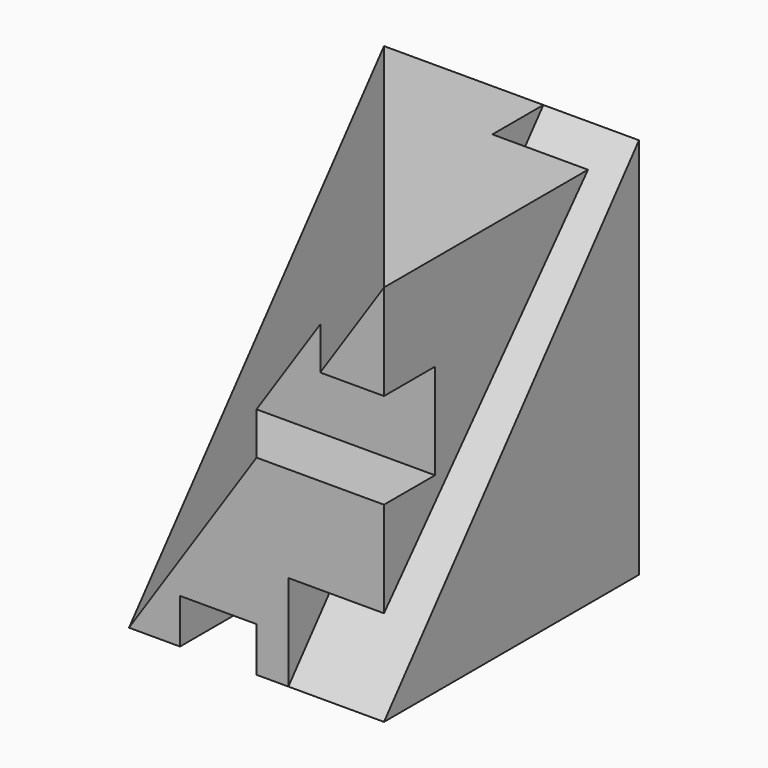
from build123d import *

# Parameters (mm, degrees)
F0_W     = 40
F0_H     = 60
F1_DEPTH = 50
F4_W     = 12
F4_H     = 7
F5_DEPTH = 50.0010001
F6_W     = 40
F6_H     = 15
F7_DEPTH = 10
F9_DEPTH = 15


with BuildPart() as f1:
    # F0 (on Front) → F1 (new body)
    with BuildSketch(Plane.XZ):
        with Locations((20, 30)):
            Rectangle(F0_W, F0_H)
    extrude(amount=F1_DEPTH)

    # F2 (on face) → F3 section 0
    with BuildSketch(Plane.XY.offset(60), mode=Mode.PRIVATE) as f3_s0:
        Polygon((40, -50), (0, 0), (0, -50), align=None)
    loft([f3_s0.sketch, Vertex(0, -50, 0)], mode=Mode.SUBTRACT)

    # F4 (on face) → F5 (cut, through all)
    with BuildSketch(Plane.XZ.offset(50)):
        with Locations((14, 3.5)):
            Rectangle(F4_W, F4_H)
    extrude(amount=-F5_DEPTH, mode=Mode.SUBTRACT)

    # F6 (on face) → F7 (cut)
    with BuildSketch(Plane.XZ.offset(50)):
        with Locations((20, 37.5)):
            Rectangle(F6_W, F6_H)
    extrude(amount=-F7_DEPTH, mode=Mode.SUBTRACT)

    # F8 (on face) → F9 (cut)
    with BuildSketch(Plane.YZ.offset(40)):
        Polygon((-50, 0), (0, 60), (-10, 60), (-50, 15), align=None)
    extrude(amount=-F9_DEPTH, mode=Mode.SUBTRACT)


solid = f1.part
